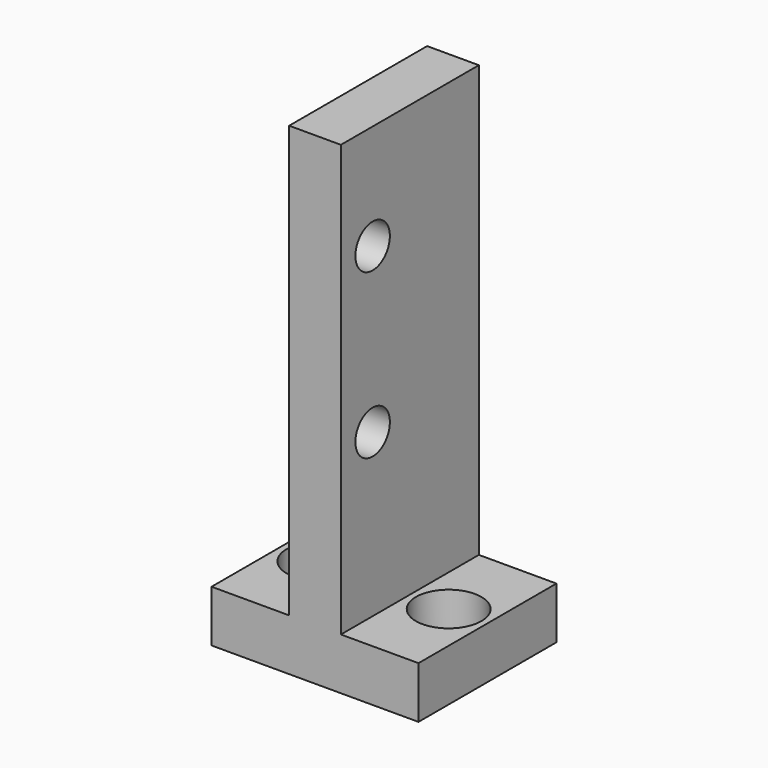
from build123d import *

# Parameters (mm, degrees)
SKETCH031_W             = 10
SKETCH031_H             = 3
PAD005_DEPTH            = 25
SKETCH032_R             = 1.25
POCKET025_DEPTH         = 5
BOX002_W                = 10
BOX002_H                = 12
BOX002_DEPTH            = 3
SKETCH033_R             = 1.9
POCKET026_DEPTH         = 3.001
BODY004_ROLL_ANGLE      = -90
BODY004_PLACEMENT_ANGLE = 90


with BuildPart() as part:
    # Sketch031 → Pad005 (new body)
    with BuildSketch(Plane.XZ):
        with Locations((5, 1.5)):
            Rectangle(SKETCH031_W, SKETCH031_H)
    extrude(amount=PAD005_DEPTH)

    # Sketch032 (on Face3 of Pad005) → Pocket025 (cut)
    with BuildSketch(Plane(origin=(0, 0, 3), x_dir=(-1, 0, 0), z_dir=(0, 0, 1))):
        with Locations((-2.3, 18.9)):
            Circle(SKETCH032_R)
        with Locations((-2.3, 9.4)):
            Circle(SKETCH032_R)
    extrude(amount=-POCKET025_DEPTH, mode=Mode.SUBTRACT)

    # Box002 → Box002 (join)
    with BuildSketch(Plane(origin=(0, 0, 7.5), x_dir=(1, 0, 0), z_dir=(0, 1, 0))):
        with Locations((5, 6)):
            Rectangle(BOX002_W, BOX002_H)
    extrude(amount=BOX002_DEPTH)

    # Sketch033 → Pocket026 (cut, through all)
    with BuildSketch(Plane.XZ):
        with Locations((5, -2.25)):
            Circle(SKETCH033_R)
        with Locations((5, 5.25)):
            Circle(SKETCH033_R)
    extrude(amount=-POCKET026_DEPTH, mode=Mode.SUBTRACT)


with BuildPart() as part_1:
    # Body004 roll: moved
    add(part.part.rotate(Axis((0, 0, 0), (1, 0, 0)), BODY004_ROLL_ANGLE))


with BuildPart() as part_2:
    # Body004 placement: moved
    add(part_1.part.moved(Location((123.59503, 57.475552, 30.987237))).rotate(Axis((123.59503, 57.475552, 30.987237), (0, 0, 1)), BODY004_PLACEMENT_ANGLE))


solid = part_2.part
